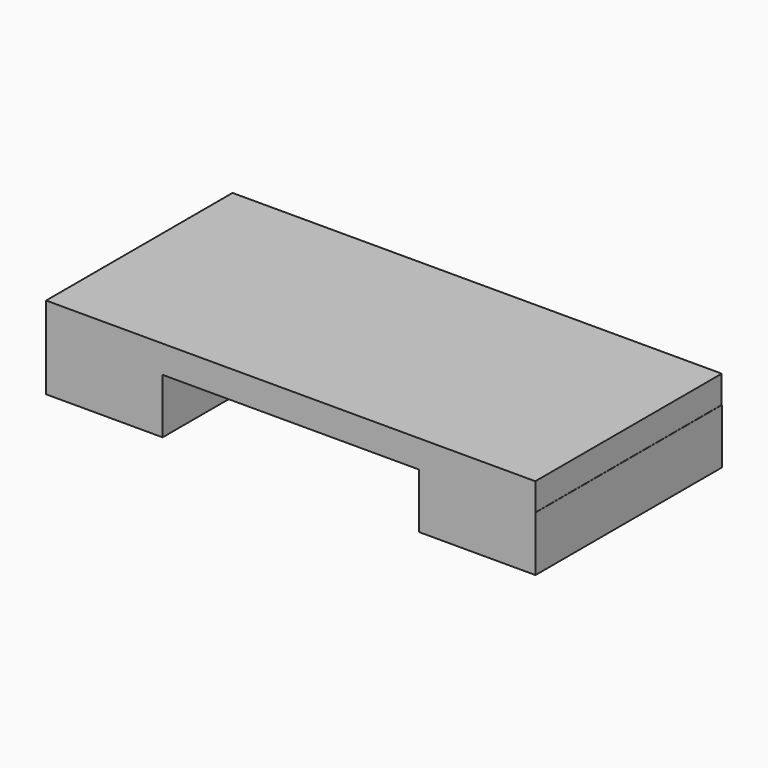
from build123d import *

# Parameters (mm, degrees)
F0_W     = 12.7
F0_H     = 25.4
F1_DEPTH = 6
F2_W     = 40.6199608326
F2_H     = 25.4
F2_W_2   = 12.7
F3_DEPTH = 3


with BuildPart() as f1:
    # F0 (on Top) → F1 (new body)
    with BuildSketch(Plane.XY):
        with Locations((6.35, 12.7)):
            Rectangle(F0_W, F0_H)
    extrude(amount=F1_DEPTH)



with BuildPart() as f1b:
    # F0 (on Top) → F1, piece 2 (new body)
    with BuildSketch(Plane.XY):
        with Locations((46.99, 12.7)):
            Rectangle(F0_W, F0_H)
    extrude(amount=F1_DEPTH)


with BuildPart() as f1_1:
    add(f1.part)

    add(f1b.part)  # F3 merges F1b
    # F2 (on face) → F3 (join)
    with BuildSketch(Plane.XY.offset(6)):
        with Locations((33.0099804163, 12.7)):
            Rectangle(F2_W, F2_H)
        with Locations((6.35, 12.7)):
            Rectangle(F2_W_2, F2_H)
    extrude(amount=F3_DEPTH)


solid = f1_1.part
